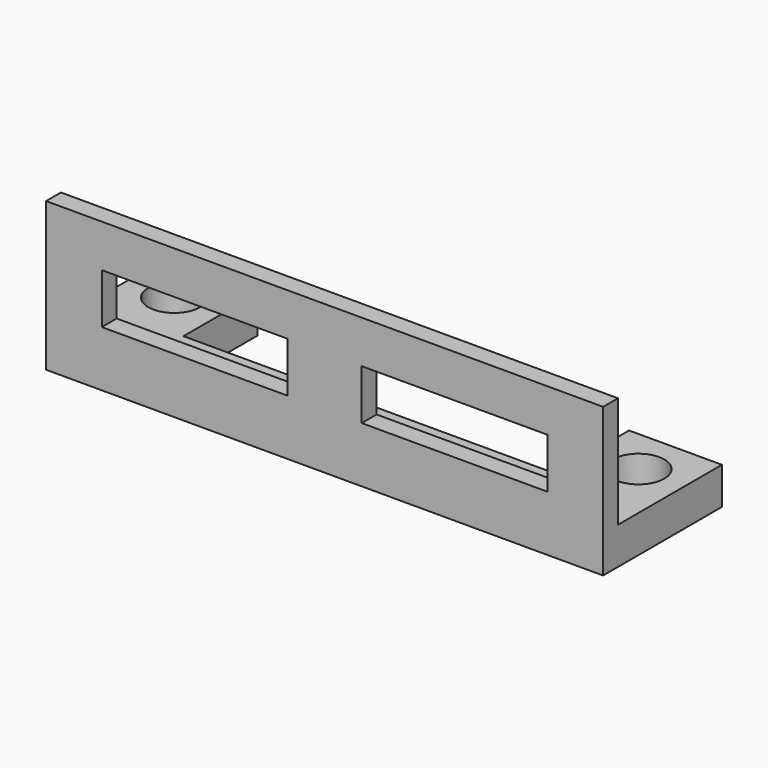
from build123d import *

# Parameters (mm, degrees)
BOX003_W          = 10
BOX003_H          = 10
BOX003_DEPTH      = 2.7
BOX004_W          = 10
BOX004_H          = 10
BOX004_DEPTH      = 2.7
CYLINDER001_R     = 1.4
CYLINDER001_DEPTH = 10
CYLINDER_R        = 1.4
CYLINDER_DEPTH    = 10
BOX_W             = 30
BOX_H             = 1
BOX_DEPTH         = 8
BOX002_W          = 20
BOX002_H          = 5
BOX002_DEPTH      = 10
BOX001_W          = 30
BOX001_H          = 8
BOX001_DEPTH      = 2


with BuildPart() as obj1:
    # Box003 → Box003 (new body)
    with BuildSketch(Plane(origin=(17, 0, 3), x_dir=(1, 0, 0), z_dir=(0, 0, 1))):
        with Locations((5, 5)):
            Rectangle(BOX003_W, BOX003_H)
    extrude(amount=BOX003_DEPTH)


with BuildPart() as obj2:
    # Box004 → Box004 (new body)
    with BuildSketch(Plane(origin=(3, 0, 3), x_dir=(1, 0, 0), z_dir=(0, 0, 1))):
        with Locations((5, 5)):
            Rectangle(BOX004_W, BOX004_H)
    extrude(amount=BOX004_DEPTH)


with BuildPart() as zylinder001:
    # Cylinder001 → Cylinder001 (new body)
    with BuildSketch(Plane(origin=(27.5, 5.5, 0), x_dir=(1, 0, 0), z_dir=(0, 0, 1))):
        Circle(CYLINDER001_R)
    extrude(amount=CYLINDER001_DEPTH)


with BuildPart() as zylinder:
    # Cylinder → Cylinder (new body)
    with BuildSketch(Plane(origin=(2.5, 5.5, 0), x_dir=(1, 0, 0), z_dir=(0, 0, 1))):
        Circle(CYLINDER_R)
    extrude(amount=CYLINDER_DEPTH)


with BuildPart() as obj3:
    # Box → Box (new body)
    with BuildSketch(Plane.XY):
        with Locations((15, 0.5)):
            Rectangle(BOX_W, BOX_H)
    extrude(amount=BOX_DEPTH)


with BuildPart() as obj4:
    # Box002 → Box002 (new body)
    with BuildSketch(Plane(origin=(5, 3, 0), x_dir=(1, 0, 0), z_dir=(0, 0, 1))):
        with Locations((10, 2.5)):
            Rectangle(BOX002_W, BOX002_H)
    extrude(amount=BOX002_DEPTH)


with BuildPart() as cut004:
    # Box001 → Box001 (new body)
    with BuildSketch(Plane.XY):
        with Locations((15, 4)):
            Rectangle(BOX001_W, BOX001_H)
    extrude(amount=BOX001_DEPTH)

    # Cut: cut obj4
    add(obj4.part, mode=Mode.SUBTRACT)

    # Fusion: union obj3
    add(obj3.part)

    # Cut001: cut Zylinder
    add(zylinder.part, mode=Mode.SUBTRACT)

    # Cut002: cut Zylinder001
    add(zylinder001.part, mode=Mode.SUBTRACT)

    # Cut003: cut obj2
    add(obj2.part, mode=Mode.SUBTRACT)

    # Cut004: cut obj1
    add(obj1.part, mode=Mode.SUBTRACT)


solid = cut004.part
